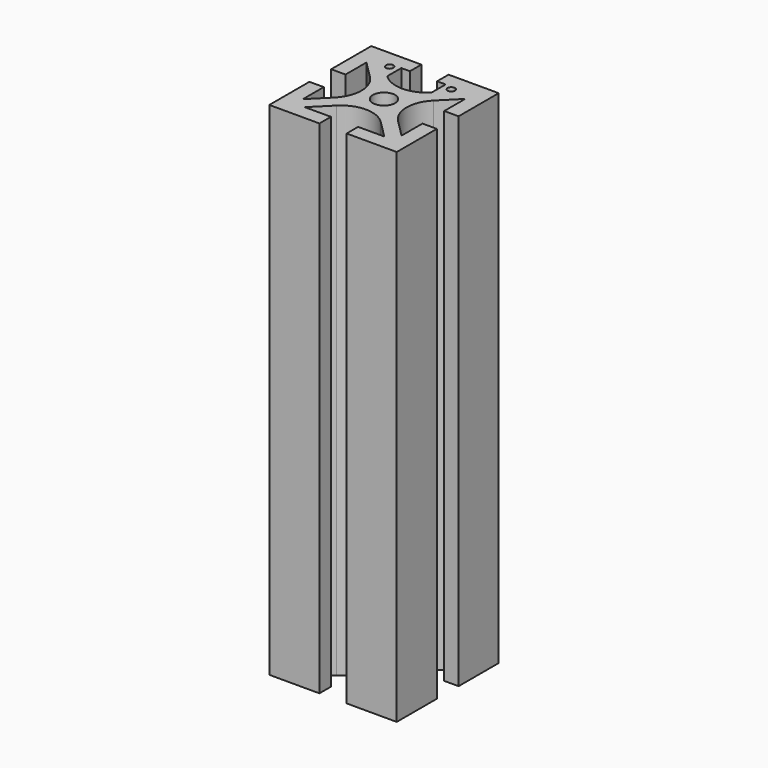
from build123d import *

# Parameters (mm, degrees)
F0_R     = 3.3274
F1_DEPTH = 150


with BuildPart() as f1:
    # F0 (on Top) → F1 (new body)
    with BuildSketch(Plane.XY):
        Polygon((-3.7364516484, -15.4113394203), (-11.5561696896, -15.4113394203), (-14.4298516484, -15.4113394203), (-14.4298516484, -12.5376574615), (-14.4298516484, -4.7179394203), (-18.7224516484, -4.7179394203), (-18.7224516484, -19.7039394203), (-3.7364516484, -19.7039394203), align=None)
        with BuildLine():
            Line((6.9557626493, -10.1558356767), (12.2112663929, -15.4113394203))
            Line((12.2112663929, -15.4113394203), (15.0849483516, -15.4113394203))
            Line((15.0849483516, -15.4113394203), (15.0849483516, -12.5376574615))
            Line((15.0849483516, -12.5376574615), (9.8294446081, -7.2821537179))
            ThreePointArc((9.8294446081, -7.2821537179), (7.0839483516, -0.6539394203), (9.8294446081, 5.9742748774))
            Line((9.8294446081, 5.9742748774), (15.0849483516, 11.229778621))
            Line((15.0849483516, 11.229778621), (15.0849483516, 14.1034605797))
            Line((15.0849483516, 14.1034605797), (12.2112663929, 14.1034605797))
            Line((12.2112663929, 14.1034605797), (10.3234675208, 12.2156617076))
            Line((10.3234675208, 12.2156617076), (6.9557626493, 8.8479568362))
            ThreePointArc((6.9557626493, 8.8479568362), (0.3275483516, 6.1024605797), (-6.300665946, 8.8479568362))
            Line((-6.300665946, 8.8479568362), (-9.6683708175, 12.2156617076))
            Line((-9.6683708175, 12.2156617076), (-11.5561696896, 14.1034605797))
            Line((-11.5561696896, 14.1034605797), (-14.4298516484, 14.1034605797))
            Line((-14.4298516484, 14.1034605797), (-14.4298516484, 11.229778621))
            Line((-14.4298516484, 11.229778621), (-9.1743479048, 5.9742748774))
            ThreePointArc((-9.1743479048, 5.9742748774), (-6.4288516484, -0.6539394203), (-9.1743479048, -7.2821537179))
            Line((-9.1743479048, -7.2821537179), (-14.4298516484, -12.5376574615))
            Line((-14.4298516484, -12.5376574615), (-14.4298516484, -15.4113394203))
            Line((-14.4298516484, -15.4113394203), (-11.5561696896, -15.4113394203))
            Line((-11.5561696896, -15.4113394203), (-6.300665946, -10.1558356767))
            ThreePointArc((-6.300665946, -10.1558356767), (0.3275483516, -7.4103394203), (6.9557626493, -10.1558356767))
        make_face()
        with Locations((0.3275483516, -0.6539394203)):
            Circle(F0_R, mode=Mode.SUBTRACT)
        Polygon((4.3915483516, -15.4113394203), (4.3915483516, -19.7039394203), (19.3775483516, -19.7039394203), (19.3775483516, -4.7179394203), (15.0849483516, -4.7179394203), (15.0849483516, -12.5376574615), (15.0849483516, -15.4113394203), (12.2112663929, -15.4113394203), align=None)
        Polygon((15.0849483516, 14.1034605797), (15.0849483516, 11.229778621), (15.0849483516, 3.4100605797), (19.3775483516, 3.4100605797), (19.3775483516, 18.3960605797), (4.3915483516, 18.3960605797), (4.3915483516, 14.1034605797), (6.9557626493, 14.1034605797), (9.5415156249, 14.1034605797), (12.2112663929, 14.1034605797), align=None)
        Polygon((-14.4298516484, 3.4100605797), (-14.4298516484, 11.229778621), (-14.4298516484, 14.1034605797), (-11.5561696896, 14.1034605797), (-8.8864189217, 14.1034605797), (-6.300665946, 14.1034605797), (-3.7364516484, 14.1034605797), (-3.7364516484, 18.3960605797), (-18.7224516484, 18.3960605797), (-18.7224516484, 3.4100605797), align=None)
        with BuildLine():
            ThreePointArc((10.3234675208, 12.2156617076), (8.5198462375, 12.574424287), (9.5415156249, 14.1034605797))
            Line((9.5415156249, 14.1034605797), (6.9557626493, 14.1034605797))
            Line((6.9557626493, 14.1034605797), (6.9557626493, 8.8479568362))
            Line((6.9557626493, 8.8479568362), (10.3234675208, 12.2156617076))
        make_face()
        with BuildLine():
            Line((-9.6683708175, 12.2156617076), (-6.300665946, 8.8479568362))
            Line((-6.300665946, 8.8479568362), (-6.300665946, 14.1034605797))
            Line((-6.300665946, 14.1034605797), (-8.8864189217, 14.1034605797))
            ThreePointArc((-8.8864189217, 14.1034605797), (-8.1044670258, 13.7795654994), (-7.7805719454, 12.9976136035))
            ThreePointArc((-7.7805719454, 12.9976136035), (-8.4632296051, 11.9759442161), (-9.6683708175, 12.2156617076))
        make_face()
        with BuildLine():
            Line((10.3234675208, 12.2156617076), (12.2112663929, 14.1034605797))
            Line((12.2112663929, 14.1034605797), (9.5415156249, 14.1034605797))
            ThreePointArc((9.5415156249, 14.1034605797), (10.3234675208, 13.7795654994), (10.6473626012, 12.9976136035))
            ThreePointArc((10.6473626012, 12.9976136035), (10.5631850124, 12.574424287), (10.3234675208, 12.2156617076))
        make_face()
        with BuildLine():
            Line((-8.8864189217, 14.1034605797), (-11.5561696896, 14.1034605797))
            Line((-11.5561696896, 14.1034605797), (-9.6683708175, 12.2156617076))
            ThreePointArc((-9.6683708175, 12.2156617076), (-9.9080883091, 13.42080292), (-8.8864189217, 14.1034605797))
        make_face()
    extrude(amount=F1_DEPTH)


solid = f1.part
